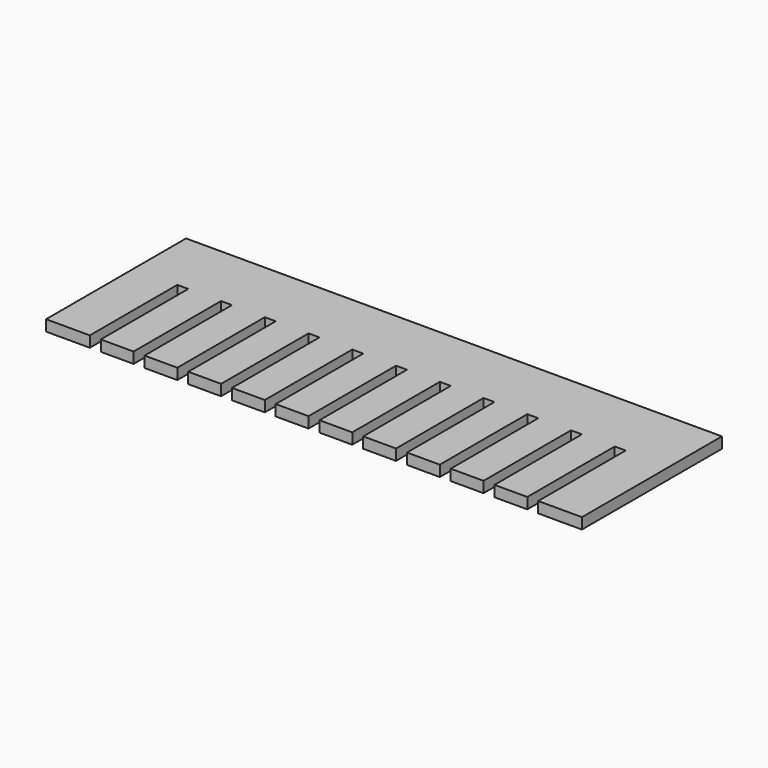
from build123d import *

# Parameters (mm, degrees)
F1_DEPTH = 5


with BuildPart() as f1:
    # F0 (on Top) → F1 (new body)
    with BuildSketch(Plane.XY):
        Polygon((0, 80), (0, 0), (20, 0), (20, 50), (22.5, 50), (25, 50), (25, 0), (40, 0), (40, 50), (42.5, 50), (45, 50), (45, 0), (60, 0), (60, 50), (62.5, 50), (65, 50), (65, 0), (80, 0), (80, 50), (82.5, 50), (85, 50), (85, 0), (100, 0), (100, 50), (102.5, 50), (105, 50), (105, 0), (120, 0), (120, 50), (122.5, 50), (125, 50), (125, 0), (140, 0), (140, 50), (142.5, 50), (145, 50), (145, 0), (160, 0), (160, 50), (162.5, 50), (165, 50), (165, 0), (180, 0), (180, 50), (182.5, 50), (185, 50), (185, 0), (200, 0), (200, 50), (202.5, 50), (205, 50), (205, 0), (220, 0), (220, 50), (222.5, 50), (225, 50), (225, 0), (245, 0), (245, 80), align=None)
    extrude(amount=F1_DEPTH)


solid = f1.part
